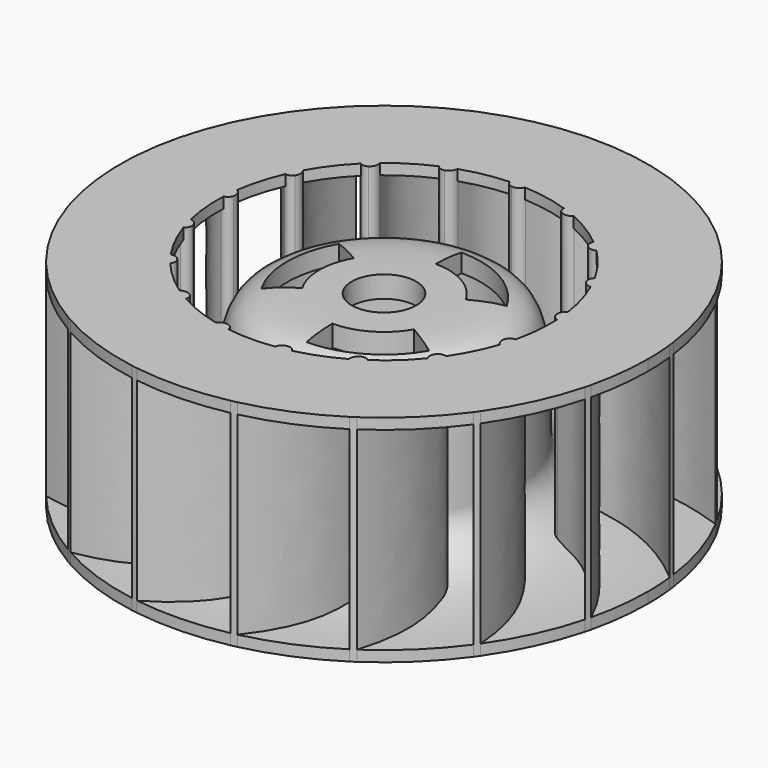
from build123d import *

# Parameters (mm, degrees)
PAD_DEPTH             = 10
POLARPATTERN_COUNT    = 17
SKETCH002_R           = 12.25
SKETCH002_R_2         = 7.75
PAD001_DEPTH          = 0.5
SKETCH003_R           = 20
SKETCH003_R_2         = 12.25
POCKET_DEPTH          = 10.001
POCKET001_DEPTH       = 82.125892
POLARPATTERN001_COUNT = 3


with BuildPart() as part:
    # Sketch → Revolution (revolve)
    with BuildSketch(Plane.YZ):
        with BuildLine():
            add(Edge.make_bspline(
                [(6.05, 3), (6.05, 8.7), (6.05, 8.7), (1.5, 8.7)],
                knots=[0, 0, 0, 0, 1, 1, 1, 1], degree=3))
            Line((1.5, 8.7), (1.5, 7.7))
            Line((1.5, 7.7), (5.05, 7.7))
            Line((5.05, 7.7), (5.05, 2.5))
            ThreePointArc((5.05, 2.5), (6.286649, 0.948435), (8.029384, 0))
            Line((8.029384, 0), (12.25, 0))
            Line((12.25, 0), (12.25, 0.5))
            add(Edge.make_bspline(
                [(6.05, 3), (6.05, 0.5), (12.25, 0.5)],
                knots=[0, 0, 0, 1, 1, 1], degree=2))
        make_face()
    revolve(axis=Axis((0, 0, 0), (0, 0, 1)))

    # Sketch005 → Pad (new body)
    with BuildSketch(Plane.XY):
        with BuildLine():
            ThreePointArc((-0.352043, 7.85607), (-0.284069, 7.620313), (-0.070389, 7.49972))
            ThreePointArc((-0.070389, 7.49972), (0.192793, 7.556606), (0.36228, 7.76583))
            add(Edge.make_bspline(
                [(0.36228, 7.76583), (0.408814, 7.896412), (0.508365, 8.134061), (0.635343, 8.494653), (0.842378, 8.967504), (1.220565, 9.485272), (1.75348, 10.038719), (2.454567, 10.595851), (3.331529, 11.122059), (4.385912, 11.581077)],
                knots=[0, 0, 0, 0, 0.142857, 0.285714, 0.428571, 0.571429, 0.714286, 0.857143, 1, 1, 1, 1], degree=3))
            Line((4.385912, 11.581077), (4.33647, 11.733246))
            add(Edge.make_bspline(
                [(-0.352043, 7.85607), (-0.327309, 8.085417), (-0.235456, 8.42856), (0.004402, 8.841516), (0.389328, 9.296663), (0.87066, 9.813855), (1.49851, 10.346925), (2.283102, 10.866035), (3.229342, 11.339217), (4.33647, 11.733246)],
                knots=[0, 0, 0, 0, 0.142857, 0.285714, 0.428571, 0.571429, 0.714286, 0.857143, 1, 1, 1, 1], degree=3))
        make_face()
    pad = extrude(amount=PAD_DEPTH)

    # PolarPattern: Pad ×17 about axis
    polarpattern_axis = Axis((0, 0, 0), (0, 0, 1))
    for i in range(1, POLARPATTERN_COUNT):
        add(pad.rotate(polarpattern_axis, i * 360 / POLARPATTERN_COUNT))

    # Sketch002 → Pad001 (join)
    with BuildSketch(Plane.YX.offset(-10)):
        Circle(SKETCH002_R)
        Circle(SKETCH002_R_2, mode=Mode.SUBTRACT)
    extrude(amount=PAD001_DEPTH)

    # Sketch003 → Pocket (cut, through all)
    with BuildSketch(Plane.XY):
        Circle(SKETCH003_R)
        Circle(SKETCH003_R_2, mode=Mode.SUBTRACT)
    extrude(amount=POCKET_DEPTH, mode=Mode.SUBTRACT)

    # Sketch004 → Pocket001 (cut, through all)
    with BuildSketch(Plane.XY):
        with BuildLine():
            ThreePointArc((3.897114, 2.25), (2.25, 3.897114), (0, 4.5))
            Line((0, 4.5), (0, 3))
            ThreePointArc((2.598076, 1.5), (1.5, 2.598076), (0, 3))
            Line((2.598076, 1.5), (3.897114, 2.25))
        make_face()
    pocket001 = extrude(amount=POCKET001_DEPTH, mode=Mode.SUBTRACT)

    # PolarPattern001: Pocket001 ×3 about axis
    polarpattern001_axis = Axis((0, 0, 0), (0, 0, 1))
    for i in range(1, POLARPATTERN001_COUNT):
        add(pocket001.rotate(polarpattern001_axis, i * 360 / POLARPATTERN001_COUNT), mode=Mode.SUBTRACT)


solid = part.part
